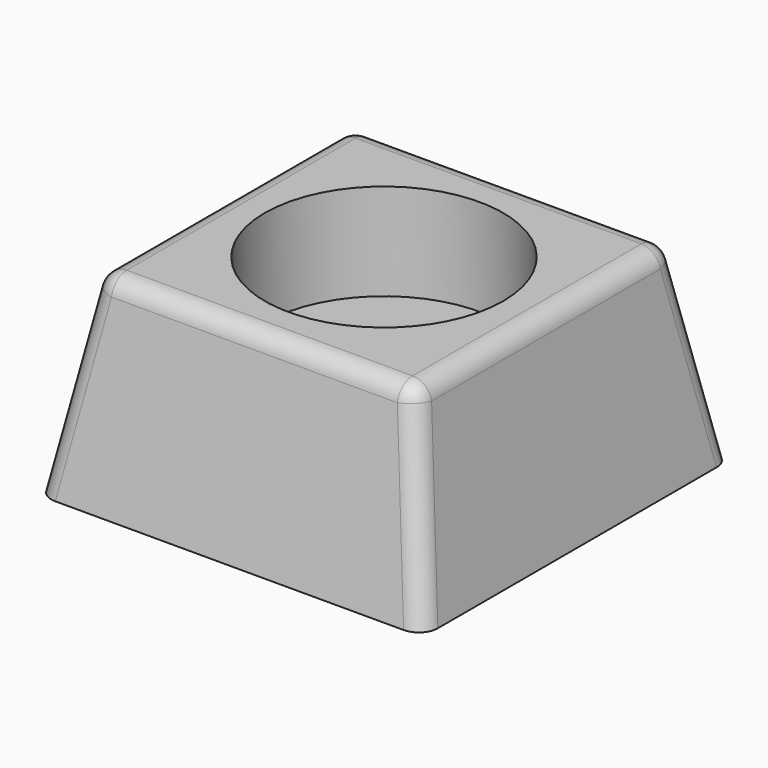
from build123d import *

# Parameters (mm, degrees)
F0_W     = 20
F0_H     = 20
F1_DEPTH = 10
F1_TAPER = 10
F2_R     = 6.173794391
F3_DEPTH = 5
F4_R     = 1


with BuildPart() as f1:
    # F0 (on Top) → F1 (new body)
    with BuildSketch(Plane.XY):
        Rectangle(F0_W, F0_H)
    extrude(amount=F1_DEPTH, taper=F1_TAPER)

    # F2 (on face) → F3 (cut)
    with BuildSketch(Plane.XY.offset(10)):
        Circle(F2_R)
    extrude(amount=-F3_DEPTH, mode=Mode.SUBTRACT)

    # F4
    f4_edges = [f1.edges().sort_by_distance(p)[0] for p in [
        (9.118365, 9.118365, 5),
        (0, 8.23673, 10),
        (8.23673, 0, 10),
        (-9.118365, 9.118365, 5),
        (0, -8.23673, 10),
        (9.118365, -9.118365, 5),
        (-9.118365, -9.118365, 5),
        (-8.23673, 0, 10),
    ]]
    fillet(f4_edges, radius=F4_R)


solid = f1.part
